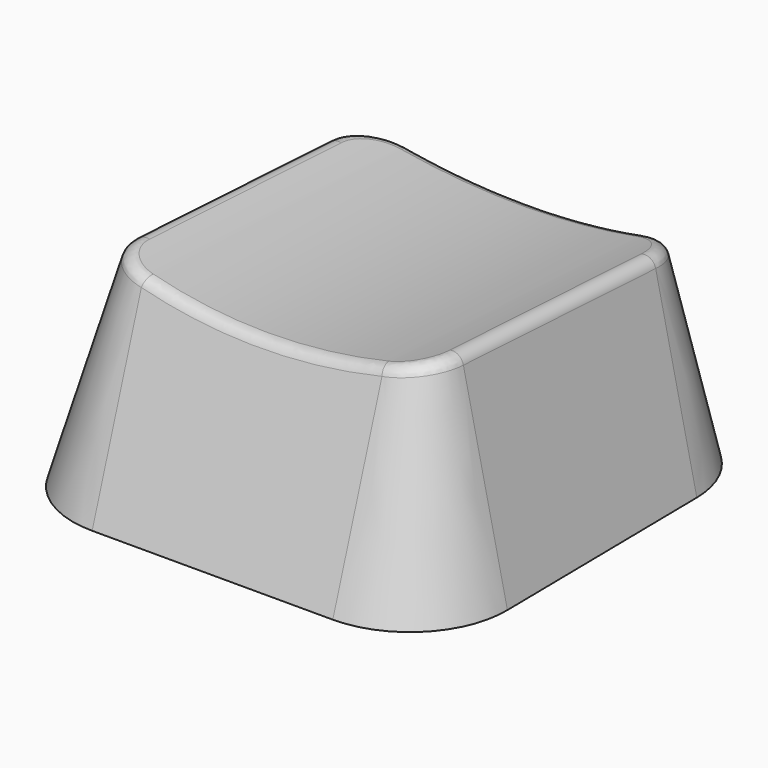
from build123d import *

# Parameters (mm, degrees)
F1_DEPTH = 9.144
F1_TAPER = -15
F2_R     = 25.4
F3_DEPTH = 12.7
F4_R     = 0.508
F6_ANGLE = -3
F8_DEPTH = 12.7


with BuildPart() as f1:
    # F0 (on Top) → F1 (new body)
    with BuildSketch(Plane.XY):
        with BuildLine():
            Line((-5.207, -6.985), (5.207, -6.985))
            ThreePointArc((5.207, -6.985), (6.4642358569, -6.4642358569), (6.985, -5.207))
            Line((6.985, -5.207), (6.985, 5.207))
            ThreePointArc((6.985, 5.207), (6.4642358569, 6.4642358569), (5.207, 6.985))
            Line((5.207, 6.985), (-5.207, 6.985))
            ThreePointArc((-5.207, 6.985), (-6.4642358569, 6.4642358569), (-6.985, 5.207))
            Line((-6.985, 5.207), (-6.985, -5.207))
            ThreePointArc((-6.985, -5.207), (-6.4642358569, -6.4642358569), (-5.207, -6.985))
        make_face()
    extrude(amount=-F1_DEPTH, taper=F1_TAPER)

    # F2 (on Front) → F3 (cut, symmetric)
    with BuildSketch(Plane.XZ):
        with Locations((0, 24.4206833442)):
            Circle(F2_R)
    extrude(amount=F3_DEPTH, both=True, mode=Mode.SUBTRACT)

    # F4
    f4_edges = [f1.edges().sort_by_distance(p)[0] for p in [
        (0, -7.247407, -0.979317),
    ]]
    fillet(f4_edges, radius=F4_R)


with BuildPart() as f1_1:
    # F6: moved
    add(f1.part.rotate(Axis((8.0583048984, 0, 0), (1, 0, 0)), F6_ANGLE))

    # F7 (on Right) → F8 (cut, symmetric)
    with BuildSketch(Plane.YZ):
        Polygon((8.733717581, -8.6376720502), (-9.9007568853, -8.6376720502), (8.9436369175, -9.6252648814), align=None)
    extrude(amount=F8_DEPTH, both=True, mode=Mode.SUBTRACT)


solid = f1_1.part
